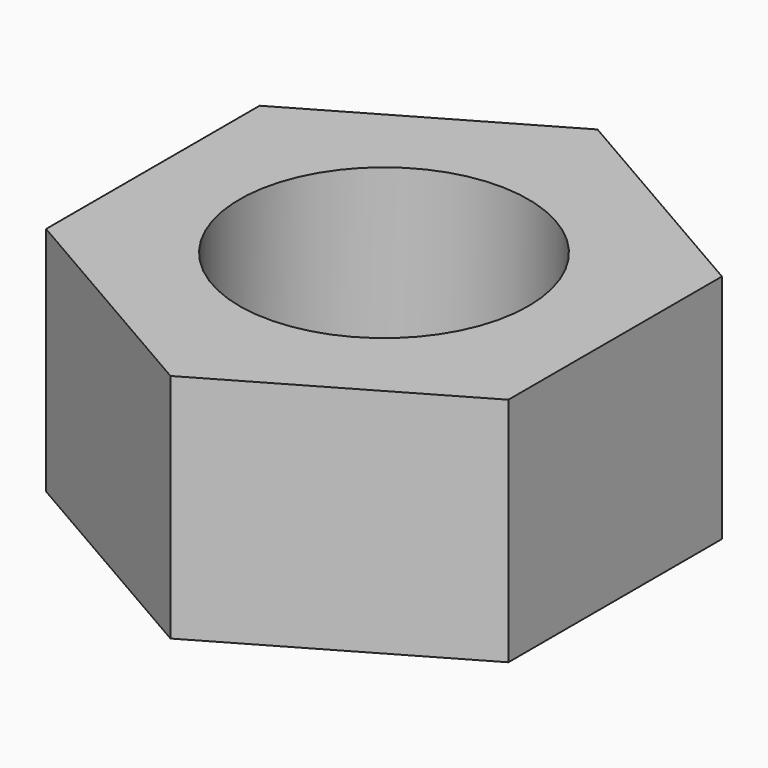
from build123d import *

# Parameters (mm, degrees)
SKETCH_R  = 2.5
PAD_DEPTH = 4


with BuildPart() as part:
    # Sketch → Pad (new body)
    with BuildSketch(Plane.XY):
        Polygon((0, 4.618802), (-4, 2.309401), (-4, -2.309401), (0, -4.618802), (4, -2.309401), (4, 2.309401), align=None)
        Circle(SKETCH_R, mode=Mode.SUBTRACT)
    extrude(amount=PAD_DEPTH)


solid = part.part
